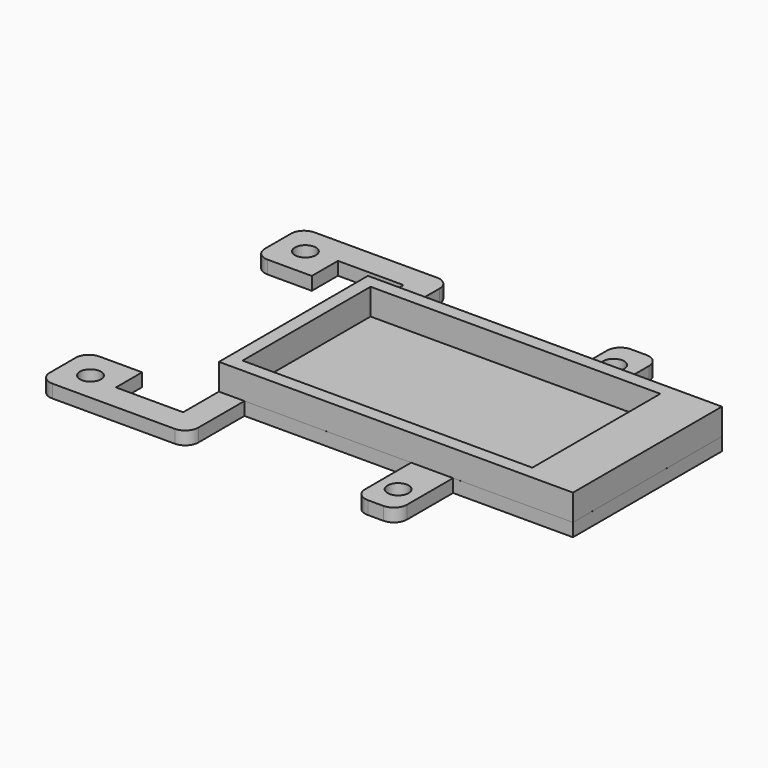
from build123d import *

# Parameters (mm, degrees)
SKETCH_R      = 1.6
PAD_DEPTH     = 2
SKETCH001_W   = 53.9946
SKETCH001_H   = 28.4007
SKETCH001_W_2 = 44.2
SKETCH001_H_2 = 24.4007
PAD001_DEPTH  = 4
FILLET_R      = 2


with BuildPart() as part:
    # Sketch → Pad (new body)
    with BuildSketch(Plane.XY):
        Polygon((21.7667, -25.4923), (21.7667, -16.53082), (30.29072, -16.53082), (30.29072, -21.52783), (40.54589, -21.52783), (40.54589, 20.48012), (30.54589, 20.48012), (30.54589, 15.49558), (21.7928, 15.49558), (21.7928, 24.4708), (44.46409, 24.4708), (44.46409, 13.68925), (70.02404, 13.68925), (70.02404, 24.4708), (76.4105, 24.4708), (76.4105, 13.68925), (94.54589, 13.68925), (94.54589, -14.71075), (76.26045, -14.71075), (76.26045, -25.4923), (69.87399, -25.4923), (69.87399, -14.71075), (44.43799, -14.71075), (44.43799, -25.4923), align=None)
        with Locations((25.98991, 19.9708)):
            Circle(SKETCH_R, mode=Mode.SUBTRACT)
        with Locations((25.99838, -21.01867)):
            Circle(SKETCH_R, mode=Mode.SUBTRACT)
        with Locations((72.97054, 20.01877)):
            Circle(SKETCH_R, mode=Mode.SUBTRACT)
        with Locations((72.94754, -21.05239)):
            Circle(SKETCH_R, mode=Mode.SUBTRACT)
    extrude(amount=PAD_DEPTH)

    # Sketch001 → Pad001 (new body)
    with BuildSketch(Plane.XY.offset(2)):
        with Locations((67.5478, -0.51015)):
            Rectangle(SKETCH001_W, SKETCH001_H)
        with Locations((64.6505, -0.51015)):
            Rectangle(SKETCH001_W_2, SKETCH001_H_2, mode=Mode.SUBTRACT)
    extrude(amount=PAD001_DEPTH)

    # Fillet
    fillet_edges = [part.edges().sort_by_distance(p)[0] for p in [
        (21.7667, -16.53082, 1),
        (21.7667, -25.4923, 1),
        (44.43799, -25.4923, 1),
        (69.87399, -25.4923, 1),
        (76.26045, -25.4923, 1),
        (76.4105, 24.4708, 1),
        (70.02404, 24.4708, 1),
        (44.46409, 24.4708, 1),
        (21.7928, 24.4708, 1),
        (21.7928, 15.49558, 1),
    ]]
    fillet(fillet_edges, radius=FILLET_R)


solid = part.part
